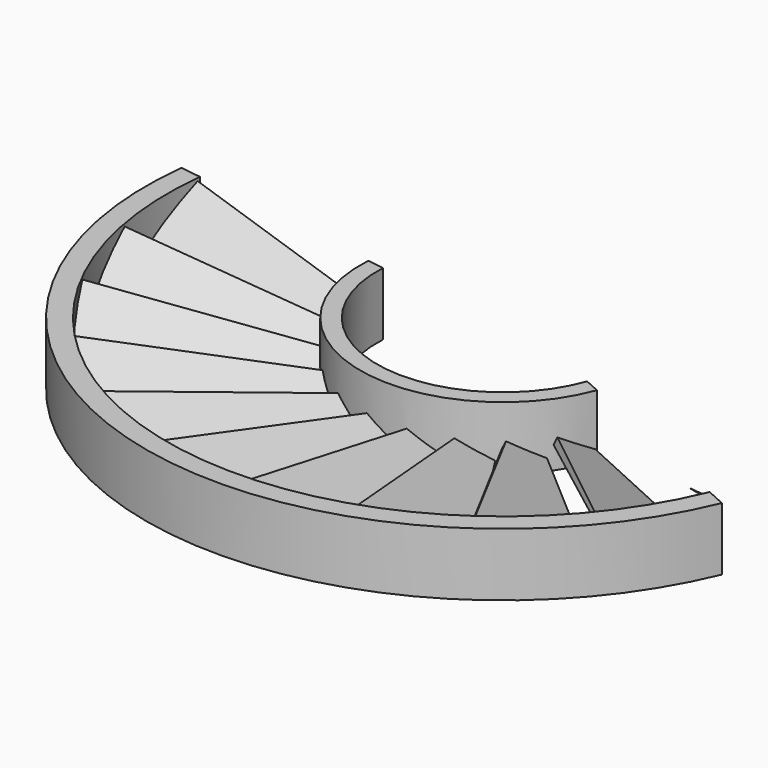
from build123d import *

# Parameters (mm, degrees)
PAD036_DEPTH              = 200
TUBE014_R                 = 100
TUBE014_R_2               = 80
TUBE014_DEPTH             = 200
PAD026_DEPTH              = 100
PAD027_DEPTH              = 2
COMMON011_PLACEMENT_ANGLE = 28
ARRAY011_COUNT            = 22
ARRAY011_PLACEMENT_ANGLE  = 180
TUBE023_R                 = 85
TUBE023_R_2               = 80
TUBE023_DEPTH             = 15
TUBE024_R                 = 34
TUBE024_R_2               = 30
TUBE024_DEPTH             = 15


with BuildPart() as body037:
    # Sketch036 → Pad036 (new body)
    with BuildSketch(Plane.XY):
        Polygon((-29.110853, 1.584928), (-96.197479, 11.61747), (-96.197479, -126.516327), (86.349205, -133.978043), (86.349205, -36.423061), (25.978256, -9.215396), align=None)
    extrude(amount=PAD036_DEPTH)


with BuildPart() as tube014:
    # Tube014 → Tube014 (new body)
    with BuildSketch(Plane.XY):
        Circle(TUBE014_R)
        Circle(TUBE014_R_2, mode=Mode.SUBTRACT)
    extrude(amount=TUBE014_DEPTH)


with BuildPart() as body027:
    # Sketch026 → Pad026 (new body)
    with BuildSketch(Plane.XZ):
        Polygon((0, 0), (0, 2), (26, 0.9), (26, 0), align=None)
    extrude(amount=PAD026_DEPTH)


with BuildPart() as body027_1:
    # Body027 placement: moved
    add(body027.part.moved(Location((-5, 0, 5))))


with BuildPart() as cut003:
    # Sketch027 → Pad027 (new body)
    with BuildSketch(Plane.XY):
        Polygon((0, 0), (0, -52), (25.94305, -47.924315), (8.5, 0), align=None)
    extrude(amount=PAD027_DEPTH)


with BuildPart() as cut003_1:
    # Body028 placement: moved
    add(cut003.part.moved(Location((-5, -33, 5))))

    # Common011: intersect Body027
    add(body027_1.part, mode=Mode.INTERSECT)


with BuildPart() as cut003_2:
    # Common011 placement: moved
    add(cut003_1.part.rotate(Axis((0, 0, 0), (0, 1, 0)), COMMON011_PLACEMENT_ANGLE))

    # Array011: Cut003 ×22 about axis
    array011_axis = Axis((0, 0, 0), (0, 0, 1))


with BuildPart() as cut003_3:
    add(cut003_2.part)
    for i in range(1, ARRAY011_COUNT):
        add(cut003_2.part.rotate(array011_axis, i * 360 / ARRAY011_COUNT))


with BuildPart() as cut003_4:
    # Array011 placement: moved
    add(cut003_3.part.moved(Location((0, 0, 78))).rotate(Axis((0, 0, 78), (0, 1, 0)), ARRAY011_PLACEMENT_ANGLE))

    # Cut003: cut Tube014
    add(tube014.part, mode=Mode.SUBTRACT)


with BuildPart() as tube023:
    # Tube023 → Tube023 (new body)
    with BuildSketch(Plane.XY.offset(68.5)):
        Circle(TUBE023_R)
        Circle(TUBE023_R_2, mode=Mode.SUBTRACT)
    extrude(amount=TUBE023_DEPTH)


with BuildPart() as stator2h1:
    # Tube024 → Tube024 (new body)
    with BuildSketch(Plane.XY.offset(68.5)):
        Circle(TUBE024_R)
        Circle(TUBE024_R_2, mode=Mode.SUBTRACT)
    extrude(amount=TUBE024_DEPTH)

    # Fusion011: union Cut003, Tube023
    add(cut003_4.part)
    add(tube023.part)

    # Common019: intersect Body037
    add(body037.part, mode=Mode.INTERSECT)


solid = stator2h1.part
